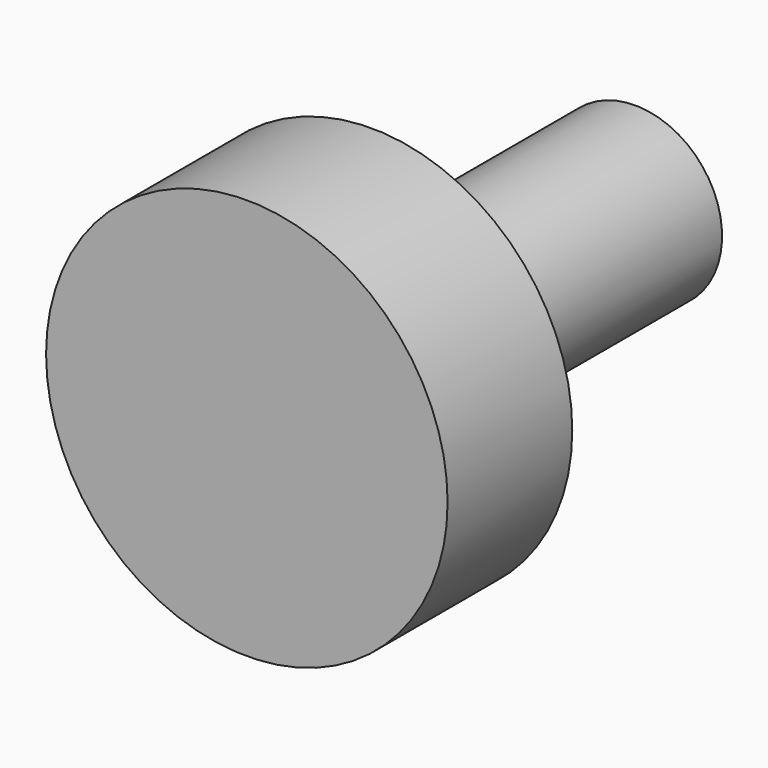
from build123d import *

# Parameters (mm, degrees)
SKETCH030_R             = 14.5
PAD018_DEPTH            = 47
SKETCH031_R             = 1.5875
PAD019_DEPTH            = 15
POCKET012_DEPTH         = 5
SKETCH033_R             = 5.5
PAD020_DEPTH            = 11
SKETCH034_R             = 33.5
PAD021_DEPTH            = 26
SKETCH035_R             = 1.5
POCKET013_DEPTH         = 7.5
SKETCH036_R             = 23
SKETCH036_R_2           = 5.5
POCKET014_DEPTH         = 11
BODY010_PLACEMENT_ANGLE = 180


with BuildPart() as part:
    # Sketch030 → Pad018 (new body)
    with BuildSketch(Plane.XZ):
        Circle(SKETCH030_R)
    extrude(amount=PAD018_DEPTH)

    # Sketch031 → Pad019 (join)
    with BuildSketch(Plane.XZ):
        Circle(SKETCH031_R)
    extrude(amount=-PAD019_DEPTH)

    # Sketch032 → Pocket012 (cut, symmetric)
    with BuildSketch(Plane.YZ):
        Polygon((3, 1.214123), (15, 1.214123), (15, 1.59), (2.863192, 1.59), align=None)
    extrude(amount=POCKET012_DEPTH, both=True, mode=Mode.SUBTRACT)

    # Sketch033 (on Face5 of Pocket012) → Pad020 (join)
    with BuildSketch(Plane(origin=(0, 15, 0), x_dir=(1, 0, 0), z_dir=(0, 1, 0))):
        Circle(SKETCH033_R)
    extrude(amount=-PAD020_DEPTH)

    # Sketch034 (on DatumPlane) → Pad021 (join)
    with BuildSketch(Plane.XZ.offset(-8)):
        Circle(SKETCH034_R)
    extrude(amount=-PAD021_DEPTH)

    # Sketch035 → Pocket013 (cut)
    with BuildSketch(Plane.XZ):
        with Locations((0, -9.5)):
            Circle(SKETCH035_R)
        with Locations((8, 0)):
            Circle(SKETCH035_R)
        with Locations((0, 9.5)):
            Circle(SKETCH035_R)
        with Locations((-8, 0)):
            Circle(SKETCH035_R)
    extrude(amount=POCKET013_DEPTH, mode=Mode.SUBTRACT)

    # Sketch036 (on DatumPlane) → Pocket014 (cut)
    with BuildSketch(Plane.XZ.offset(-8)):
        Circle(SKETCH036_R)
        Circle(SKETCH036_R_2, mode=Mode.SUBTRACT)
    extrude(amount=-POCKET014_DEPTH, mode=Mode.SUBTRACT)


with BuildPart() as part_1:
    # Body010 placement: moved
    add(part.part.moved(Location((-1, -113, 22.5))).rotate(Axis((-1, -113, 22.5), (0, 0, 1)), BODY010_PLACEMENT_ANGLE))


solid = part_1.part
